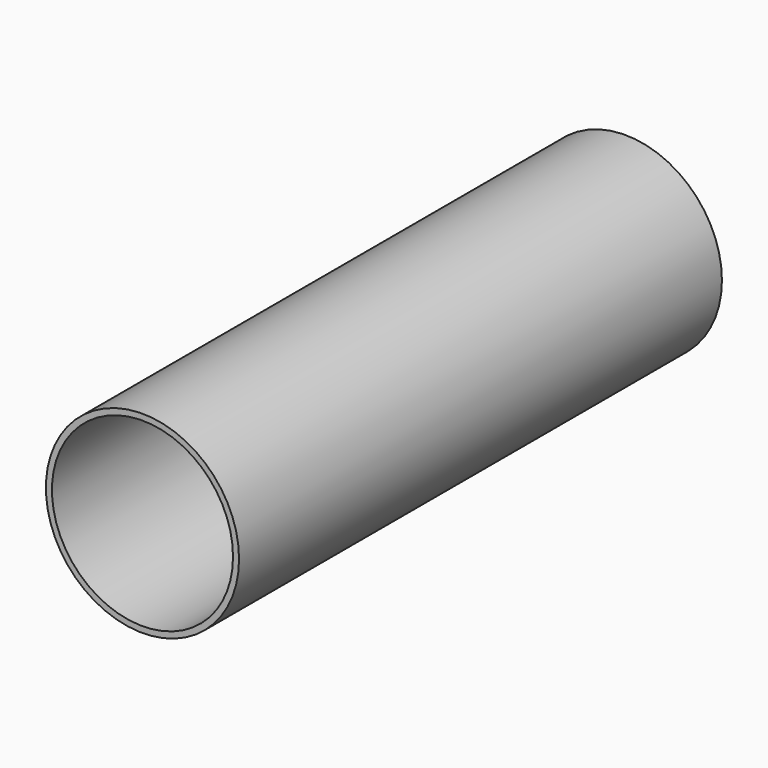
from build123d import *

# Parameters (mm, degrees)
F0_R   = 4
F0_R_2 = 3.75


with BuildPart() as f2:
    # F2: sweep along a path in F1
    with BuildLine(Plane.XY) as f2_path:
        Line((0, 0), (0, 25))
    # F0 (on Front) → F2 (sweep)
    with BuildSketch(Plane.XZ):
        Circle(F0_R)
        Circle(F0_R_2, mode=Mode.SUBTRACT)
    sweep(path=f2_path.line)


solid = f2.part
